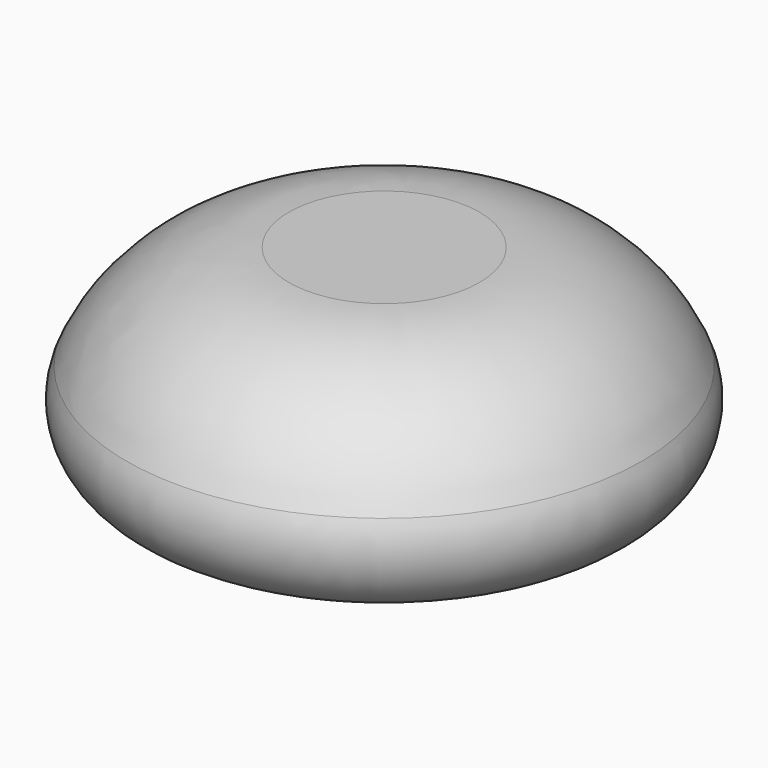
from build123d import *


with BuildPart() as f1:
    # F0 (on Front) → F1 (revolve)
    with BuildSketch(Plane.XZ):
        with BuildLine():
            Line((8, 0), (0, 0))
            Line((0, 0), (0, -17))
            Line((0, -17), (0, -19))
            Line((0, -19), (14, -17.85423))
            ThreePointArc((14, -17.85423), (15.324683, -17.839458), (16.34953, -17))
            ThreePointArc((16.34953, -17), (21.245371, -14.325792), (21.641042, -8.761253))
            ThreePointArc((21.641042, -8.761253), (16.106133, -2.378962), (8, 0))
        make_face()
    revolve(axis=Axis((0, 0, -8.5), (0, 0, 1)))


solid = f1.part
